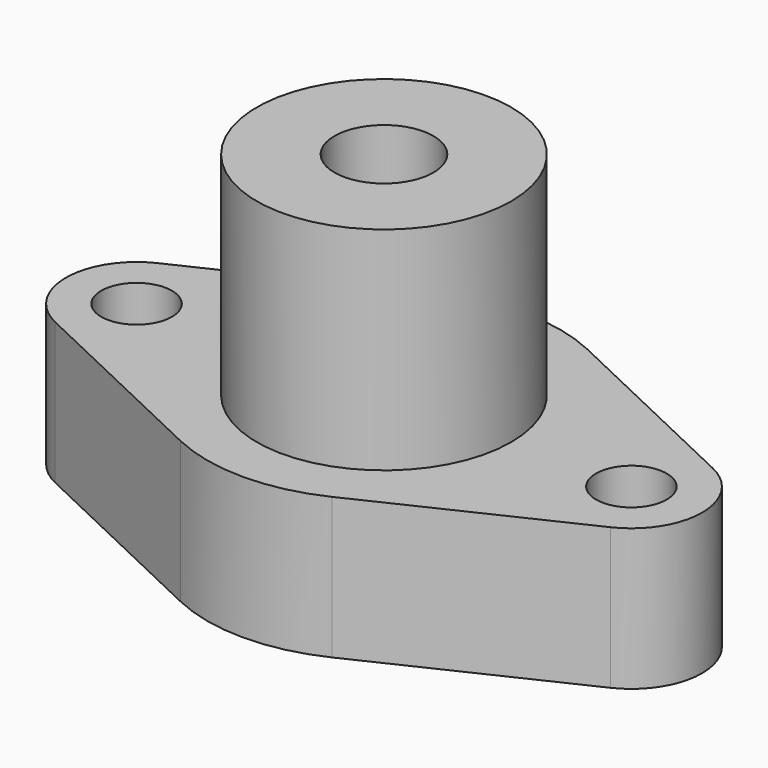
from build123d import *

# Parameters (mm, degrees)
F1_DEPTH = 10
F3_D     = 10
F4_R     = 18
F5_DEPTH = 30
F7_D     = 14
F7_DEPTH = 18
F7_TIP   = 4.2060243332


with BuildPart() as f1:
    # F0 (on Top) → F1 (new body, symmetric)
    with BuildSketch(Plane.XY):
        with BuildLine():
            ThreePointArc((10.7142857143, 22.5876975726), (21.1288563682, 13.3630620956), (25, 0))
            ThreePointArc((25, 0), (29.6547751618, 8.4515425473), (39.2857142857, 9.0350790291))
            Line((39.2857142857, 9.0350790291), (10.7142857143, 22.5876975726))
        make_face()
        with BuildLine():
            ThreePointArc((39.2857142857, -9.0350790291), (29.6547751618, -8.4515425473), (25, 0))
            ThreePointArc((25, 0), (21.1288563682, -13.3630620956), (10.7142857143, -22.5876975726))
            Line((10.7142857143, -22.5876975726), (39.2857142857, -9.0350790291))
        make_face()
        with BuildLine():
            ThreePointArc((-25, 0), (-21.1288563682, 13.3630620956), (-10.7142857143, 22.5876975726))
            Line((-10.7142857143, 22.5876975726), (-39.2857142857, 9.0350790291))
            ThreePointArc((-39.2857142857, 9.0350790291), (-29.6547751618, 8.4515425473), (-25, 0))
        make_face()
        with BuildLine():
            ThreePointArc((-39.2857142857, -9.0350790291), (-29.6547751618, -8.4515425473), (-25, 0))
            ThreePointArc((-25, 0), (-29.6547751618, 8.4515425473), (-39.2857142857, 9.0350790291))
            ThreePointArc((-39.2857142857, 9.0350790291), (-45, 0), (-39.2857142857, -9.0350790291))
        make_face()
        with BuildLine():
            ThreePointArc((39.2857142857, 9.0350790291), (29.6547751618, 8.4515425473), (25, 0))
            ThreePointArc((25, 0), (29.6547751618, -8.4515425473), (39.2857142857, -9.0350790291))
            ThreePointArc((39.2857142857, -9.0350790291), (43.4515425473, -5.3452248382), (45, 0))
            ThreePointArc((45, 0), (43.4515425473, 5.3452248382), (39.2857142857, 9.0350790291))
        make_face()
        with BuildLine():
            Line((-39.2857142857, -9.0350790291), (-10.7142857143, -22.5876975726))
            ThreePointArc((-10.7142857143, -22.5876975726), (-21.1288563682, -13.3630620956), (-25, 0))
            ThreePointArc((-25, 0), (-29.6547751618, -8.4515425473), (-39.2857142857, -9.0350790291))
        make_face()
        with BuildLine():
            ThreePointArc((10.7142857143, -22.5876975726), (21.1288563682, -13.3630620956), (25, 0))
            ThreePointArc((25, 0), (21.1288563682, 13.3630620956), (10.7142857143, 22.5876975726))
            ThreePointArc((10.7142857143, 22.5876975726), (0, 25), (-10.7142857143, 22.5876975726))
            ThreePointArc((-10.7142857143, 22.5876975726), (-21.1288563682, 13.3630620956), (-25, 0))
            ThreePointArc((-25, 0), (-21.1288563682, -13.3630620956), (-10.7142857143, -22.5876975726))
            ThreePointArc((-10.7142857143, -22.5876975726), (0, -25), (10.7142857143, -22.5876975726))
        make_face()
    extrude(amount=F1_DEPTH, both=True)

    # F3 (through all)
    with Locations(Plane.XY.offset(10)):
        with Locations((-35, 0), (35, 0)):
            Hole(F3_D / 2)

    # F4 (on face) → F5 (join)
    with BuildSketch(Plane.XY.offset(10)):
        Circle(F4_R)
    extrude(amount=F5_DEPTH)

    # F7
    with Locations(Plane.XY.offset(40)):
        with Locations((0, 0)):
            Hole(F7_D / 2, depth=F7_DEPTH)
            with Locations((0, 0, -(F7_DEPTH + F7_TIP / 2))):  # 118° drill point
                Cone(0, F7_D / 2, F7_TIP, mode=Mode.SUBTRACT)


solid = f1.part
